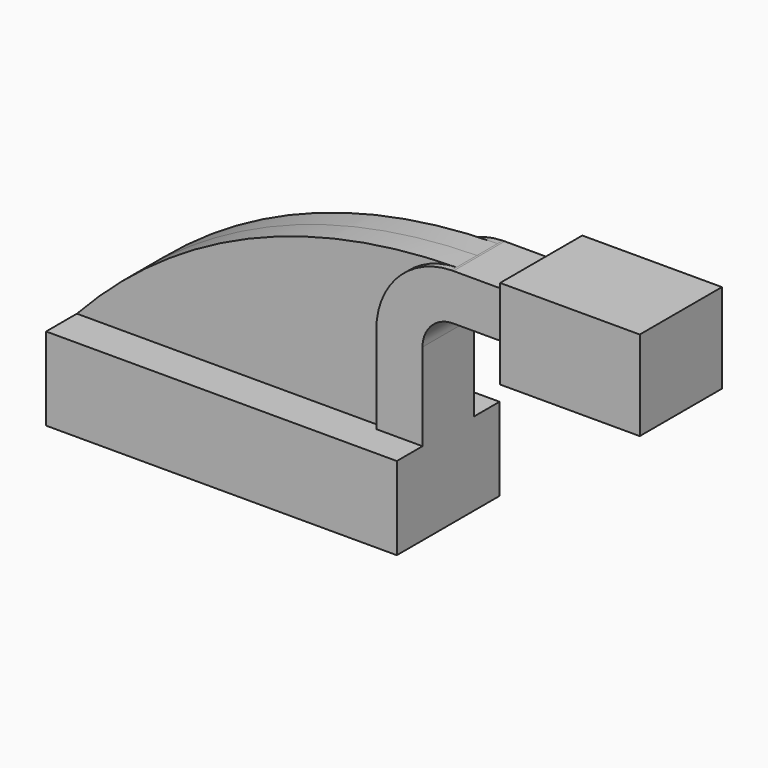
from build123d import *

# Parameters (mm, degrees)
F1_DEPTH = 25
F2_DEPTH = 10
F3_DEPTH = 12.5
F4_DEPTH = 20


with BuildPart() as f1:
    # F0 (on Front) → F1 (new body, symmetric)
    with BuildSketch(Plane.XZ):
        Polygon((0, -41.924461), (0, -9.631296), (-17.999999, -9.631296), (-136.603385, -9.631296), (-136.603385, -41.924461), align=None)
    extrude(amount=F1_DEPTH, both=True)

    # F0 (on Front) → F2 (join, symmetric)
    with BuildSketch(Plane.XZ):
        with BuildLine():
            Line((-136.603385, -9.631296), (-17.999999, -9.631296))
            Line((-17.999999, -9.631296), (-17.999999, 24.361512))
            ThreePointArc((-17.999999, 24.361512), (-9.47987, 45.304653), (11.241012, 54.351908))
            add(Edge.make_bspline(
                [(-136.603385, -9.631296), (-91.775244, 38.556366), (-37.152971, 53.664777), (11.241012, 54.351908)],
                knots=[0, 0, 0, 0, 160.954295, 160.954295, 160.954295, 160.954295], degree=3))
        make_face()
    extrude(amount=F2_DEPTH, both=True)

    # F0 (on Front) → F3 (join, symmetric)
    with BuildSketch(Plane.XZ):
        with BuildLine():
            Line((-17.999999, -9.631296), (0, -9.631296))
            Line((0, -9.631296), (0, 24.361512))
            ThreePointArc((0, 24.361512), (3.514719, 32.846793), (12, 36.361512))
            Line((12, 36.361512), (36.226183, 36.361512))
            Line((36.226183, 36.361512), (36.226183, 54.361511))
            Line((36.226183, 54.361511), (12, 54.361511))
            add(Edge.make_bspline(
                [(11.241012, 54.351908), (11.494179, 54.355503), (11.747176, 54.358703), (12, 54.361511)],
                knots=[160.954295, 160.954295, 160.954295, 160.954295, 161.796308, 161.796308, 161.796308, 161.796308], degree=3))
            ThreePointArc((11.241012, 54.351908), (-9.47987, 45.304653), (-17.999999, 24.361512))
            Line((-17.999999, 24.361512), (-17.999999, -9.631296))
        make_face()
    extrude(amount=F3_DEPTH, both=True)

    # F0 (on Front) → F4 (join, symmetric)
    with BuildSketch(Plane.XZ):
        Polygon((36.226183, 54.361511), (36.226183, 36.361512), (36.226183, 26.344426), (90.614673, 26.344426), (90.614673, 61.187055), (36.226183, 61.187055), align=None)
    extrude(amount=F4_DEPTH, both=True)


solid = f1.part
